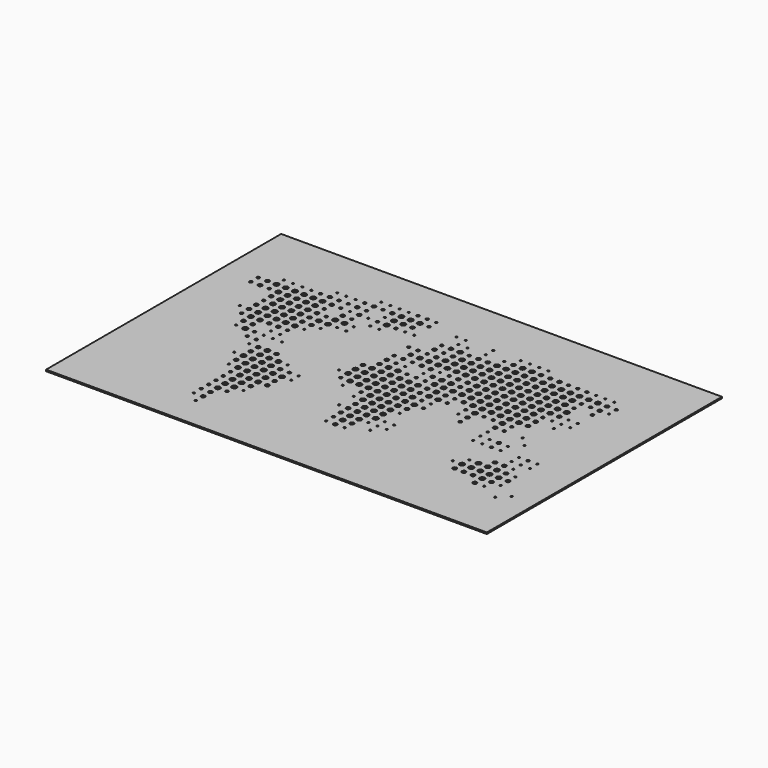
from build123d import *

# Parameters (mm, degrees)
F0_W     = 900
F0_H     = 600
F1_DEPTH = 3
F4_D     = 4
F5_D     = 4
F7_D     = 6
F9_D     = 8
F11_D    = 10
F12_D    = 10
F13_D    = 10


with BuildPart() as f1:
    # F0 (on Top) → F1 (new body)
    with BuildSketch(Plane.XY):
        Rectangle(F0_W, F0_H)
    extrude(amount=F1_DEPTH)

    # F4 (through all)
    with Locations(Plane.XY.offset(3)):
        with Locations((-253.125, 28.125), (-65.625, 215.625), (-140.625, 178.125), (-84.375, 159.375), (-196.875, -234.375), (-215.625, 65.625), (-121.875, -65.625), (-253.125, 9.375), (-159.375, -46.875), (-290.625, 178.125), (-196.875, 84.375), (-234.375, 9.375), (-196.875, 159.375), (-121.875, 215.625), (-121.875, -84.375), (-9.375, 196.875), (-178.125, 103.125), (-121.875, 140.625), (-253.125, -65.625), (-159.375, 215.625), (-178.125, 215.625), (-328.125, 178.125), (-9.375, -103.125), (-215.625, -215.625), (-346.875, 65.625), (-215.625, 9.375), (-159.375, 103.125), (-46.875, -46.875), (-65.625, 159.375), (-309.375, 9.375), (-84.375, -9.375), (-309.375, 178.125), (-140.625, 215.625), (-159.375, -159.375), (-215.625, 196.875), (-253.125, 196.875), (-9.375, 65.625), (-234.375, 196.875), (-346.875, 178.125), (-234.375, -103.125), (-159.375, 121.875), (-140.625, 140.625), (-253.125, -28.125), (-159.375, 159.375), (-9.375, -65.625), (-234.375, 28.125)):
            Hole(F4_D / 2)

    # F5 (through all)
    with Locations(Plane.XY.offset(3)):
        with Locations((403.125, -178.125), (309.375, -28.125), (65.625, 178.125), (46.875, 84.375), (-65.625, 215.625), (309.375, 65.625), (84.375, -65.625), (103.125, -9.375), (-84.375, 159.375), (140.625, 196.875), (328.125, 65.625), (234.375, -28.125), (103.125, 178.125), (159.375, -9.375), (309.375, 178.125), (65.625, 196.875), (84.375, -121.875), (346.875, -103.125), (328.125, 84.375), (365.625, -121.875), (309.375, 46.875), (290.625, 178.125), (46.875, -159.375), (178.125, 196.875), (65.625, -121.875), (290.625, 65.625), (9.375, 178.125), (-9.375, 196.875), (159.375, 196.875), (309.375, 84.375), (84.375, -140.625), (328.125, 178.125), (290.625, -65.625), (84.375, -103.125), (-9.375, -65.625), (365.625, -65.625), (9.375, 196.875), (328.125, -65.625), (-9.375, -103.125), (271.875, -121.875), (103.125, -103.125), (-46.875, -46.875), (-65.625, 159.375), (346.875, 140.625), (-84.375, -9.375), (365.625, -84.375), (103.125, -121.875), (346.875, -178.125), (253.125, -46.875), (384.375, -196.875), (234.375, -46.875), (234.375, -65.625), (-9.375, 65.625), (28.125, 65.625), (290.625, -9.375), (253.125, -140.625), (9.375, -159.375), (346.875, -84.375), (365.625, -159.375), (28.125, 178.125), (121.875, 196.875), (328.125, -84.375), (253.125, -65.625), (290.625, -46.875)):
            Hole(F5_D / 2)

    # F7 (through all)
    with Locations(Plane.XY.offset(3)):
        with Locations((103.125, -28.125), (9.375, 140.625), (28.125, 46.875), (196.875, 9.375), (-346.875, 140.625), (290.625, 121.875), (-215.625, 159.375), (253.125, -9.375), (-384.375, 140.625), (-215.625, -159.375), (9.375, 46.875), (-196.875, 196.875), (-178.125, 140.625), (-215.625, 178.125), (-84.375, 215.625), (271.875, 178.125), (159.375, 9.375), (234.375, 178.125), (-178.125, 178.125), (-215.625, -121.875), (-328.125, 46.875), (-9.375, 84.375), (-65.625, 196.875), (-65.625, -28.125), (-103.125, 159.375), (346.875, -65.625), (-103.125, 215.625), (121.875, 28.125), (-234.375, 46.875), (46.875, 159.375), (-234.375, 178.125), (-215.625, -178.125), (-384.375, 159.375), (65.625, 84.375), (290.625, 140.625), (-9.375, 121.875), (9.375, -140.625), (178.125, -28.125), (-159.375, 196.875), (-46.875, 121.875), (309.375, 140.625), (-328.125, 103.125), (-271.875, 9.375), (271.875, 65.625), (-271.875, 178.125), (-9.375, -46.875), (-234.375, 140.625), (46.875, 46.875), (-215.625, 121.875), (-215.625, -196.875), (-140.625, 159.375), (-28.125, 121.875), (215.625, 9.375), (-46.875, 84.375), (-253.125, -9.375), (-9.375, 159.375), (346.875, 159.375), (84.375, -9.375), (121.875, 9.375), (328.125, 121.875), (-28.125, 65.625), (-271.875, -9.375), (271.875, -65.625), (253.125, 9.375), (-140.625, -65.625), (-215.625, -140.625), (253.125, 178.125), (-178.125, -178.125)):
            Hole(F7_D / 2)

    # F9 (through all)
    with Locations(Plane.XY.offset(3)):
        with Locations((-253.125, 46.875), (-9.375, 140.625), (-365.625, 159.375), (9.375, -103.125), (-215.625, 84.375), (121.875, 178.125), (234.375, -9.375), (9.375, -121.875), (215.625, 178.125), (9.375, 121.875), (290.625, -159.375), (28.125, -159.375), (9.375, 84.375), (103.125, 28.125), (328.125, -178.125), (-196.875, -215.625), (140.625, 28.125), (-28.125, 84.375), (-328.125, 65.625), (-234.375, -46.875), (-178.125, 196.875), (196.875, 178.125), (-234.375, 103.125), (65.625, 9.375), (346.875, -121.875), (-46.875, 46.875), (178.125, -9.375), (328.125, 159.375), (9.375, 159.375), (271.875, 28.125), (-196.875, 140.625), (271.875, -159.375), (-253.125, 178.125), (65.625, 159.375), (-178.125, 159.375), (-46.875, 65.625), (-234.375, 121.875), (-234.375, -28.125), (-65.625, 28.125), (-196.875, -196.875), (-84.375, 178.125), (-28.125, 103.125), (-234.375, 159.375), (328.125, -103.125), (309.375, -159.375), (-271.875, 46.875), (-196.875, 178.125), (271.875, 46.875), (-159.375, -65.625), (84.375, 84.375), (9.375, -84.375), (28.125, 140.625), (-140.625, -103.125), (-309.375, 28.125), (-159.375, -140.625), (290.625, 84.375), (103.125, 65.625), (84.375, 159.375), (-234.375, 84.375), (46.875, -140.625), (178.125, 178.125), (346.875, -159.375), (65.625, 28.125), (-140.625, 196.875), (46.875, 65.625), (28.125, 84.375), (365.625, -140.625), (84.375, -46.875), (-234.375, -84.375), (-328.125, 121.875), (-140.625, -121.875), (-196.875, -28.125), (271.875, -46.875), (-328.125, 84.375), (328.125, 140.625), (-365.625, 140.625), (309.375, -103.125), (-290.625, 28.125), (103.125, 84.375)):
            Hole(F9_D / 2)

    # F11 (through all)
    with Locations(Plane.XY.offset(3)):
        with Locations((159.375, 121.875), (196.875, 140.625), (140.625, 121.875), (159.375, 159.375), (253.125, 121.875), (234.375, 46.875), (215.625, 121.875), (178.125, 140.625), (234.375, 28.125), (234.375, 159.375), (140.625, 46.875), (196.875, 159.375), (290.625, -121.875), (159.375, 46.875), (271.875, 84.375), (159.375, 140.625), (196.875, 103.125), (196.875, 121.875), (196.875, 84.375), (328.125, -121.875), (178.125, 46.875), (328.125, -140.625), (215.625, 103.125), (215.625, 84.375), (159.375, 65.625), (215.625, 65.625), (215.625, 28.125), (140.625, 84.375), (253.125, 28.125), (140.625, 140.625), (253.125, 140.625), (309.375, 159.375), (309.375, -121.875), (253.125, 84.375), (253.125, 65.625), (271.875, 159.375), (196.875, 28.125), (215.625, 46.875), (140.625, 65.625), (271.875, 121.875), (178.125, 159.375), (215.625, 140.625), (253.125, 103.125), (159.375, 103.125), (234.375, 103.125), (140.625, 103.125), (178.125, 9.375), (234.375, 84.375), (215.625, 159.375), (159.375, 178.125), (290.625, 103.125), (159.375, 84.375), (253.125, 46.875), (178.125, 28.125), (346.875, -140.625), (234.375, 121.875), (234.375, 140.625), (140.625, 159.375), (196.875, 65.625), (234.375, 9.375), (271.875, -140.625), (271.875, 103.125), (271.875, 140.625), (140.625, 178.125), (234.375, 65.625), (290.625, 159.375), (178.125, 65.625), (178.125, 103.125), (328.125, -159.375), (253.125, 159.375), (196.875, 46.875), (178.125, 121.875), (309.375, -140.625), (159.375, 28.125), (178.125, 84.375), (290.625, -140.625)):
            Hole(F11_D / 2)

    # F12 (through all)
    with Locations(Plane.XY.offset(3)):
        with Locations((65.625, 103.125), (103.125, 103.125), (-159.375, -121.875), (46.875, 140.625), (103.125, 140.625), (28.125, 28.125), (121.875, 121.875), (65.625, 140.625), (-46.875, -28.125), (84.375, -28.125), (103.125, 159.375), (65.625, 121.875), (-9.375, 9.375), (28.125, -140.625), (103.125, 46.875), (-84.375, 196.875), (-121.875, 159.375), (65.625, 46.875), (28.125, -28.125), (121.875, 65.625), (-9.375, -9.375), (-140.625, -84.375), (28.125, 103.125), (-159.375, -103.125), (28.125, -65.625), (9.375, 9.375), (121.875, 159.375), (84.375, 9.375), (46.875, 121.875), (28.125, 159.375), (65.625, -103.125), (-46.875, -9.375), (9.375, -9.375), (121.875, 103.125), (-159.375, -84.375), (28.125, -9.375), (103.125, 9.375), (65.625, -9.375), (-9.375, 28.125), (-46.875, 28.125), (9.375, -28.125), (46.875, -121.875), (-103.125, 178.125), (84.375, 140.625), (28.125, 9.375), (121.875, 140.625), (9.375, -46.875), (46.875, -84.375), (-9.375, 46.875), (84.375, 121.875), (121.875, 84.375), (46.875, -103.125), (9.375, 28.125), (-121.875, 178.125), (46.875, 9.375), (65.625, -65.625), (-9.375, 103.125), (65.625, -28.125), (84.375, 28.125), (-28.125, 9.375), (9.375, 103.125), (-65.625, 9.375), (-28.125, 28.125), (28.125, -121.875), (65.625, -46.875), (-46.875, 9.375), (121.875, 46.875), (84.375, 46.875), (46.875, -46.875), (84.375, 65.625), (28.125, 121.875), (46.875, -28.125), (103.125, 121.875), (28.125, -46.875), (-9.375, -28.125), (65.625, 65.625), (28.125, -84.375), (-28.125, -28.125), (46.875, -65.625), (84.375, 103.125), (65.625, -84.375), (-103.125, 196.875), (28.125, -103.125), (-121.875, 196.875), (9.375, -65.625), (46.875, 28.125), (-65.625, -9.375), (46.875, 103.125), (46.875, -9.375), (-28.125, 46.875), (-28.125, -9.375)):
            Hole(F12_D / 2)

    # F13 (through all)
    with Locations(Plane.XY.offset(3)):
        with Locations((-215.625, -84.375), (-215.625, -28.125), (-196.875, -65.625), (-196.875, -178.125), (-290.625, 121.875), (-178.125, -46.875), (-196.875, -84.375), (-309.375, 65.625), (-290.625, 9.375), (-196.875, -121.875), (-178.125, 121.875), (-234.375, 65.625), (-196.875, 121.875), (-290.625, 140.625), (-271.875, 121.875), (-309.375, 140.625), (-253.125, 103.125), (-271.875, 159.375), (-196.875, -46.875), (-309.375, 103.125), (-178.125, -103.125), (-290.625, 159.375), (-253.125, 159.375), (-196.875, -140.625), (-271.875, 65.625), (-215.625, -46.875), (-196.875, -159.375), (-178.125, -121.875), (-178.125, -84.375), (-215.625, -103.125), (-290.625, 46.875), (-178.125, -65.625), (-253.125, 84.375), (-290.625, 65.625), (-178.125, -140.625), (-271.875, 140.625), (-346.875, 159.375), (-215.625, -65.625), (-328.125, 159.375), (-215.625, 103.125), (-253.125, 65.625), (-309.375, 159.375), (-290.625, 103.125), (-178.125, -159.375), (-309.375, 121.875), (-328.125, 140.625), (-271.875, 84.375), (-309.375, 46.875), (-253.125, 121.875), (-196.875, 103.125), (-196.875, -103.125), (-309.375, 84.375), (-290.625, 84.375), (-234.375, -65.625), (-271.875, 103.125), (-253.125, 140.625)):
            Hole(F13_D / 2)


solid = f1.part
